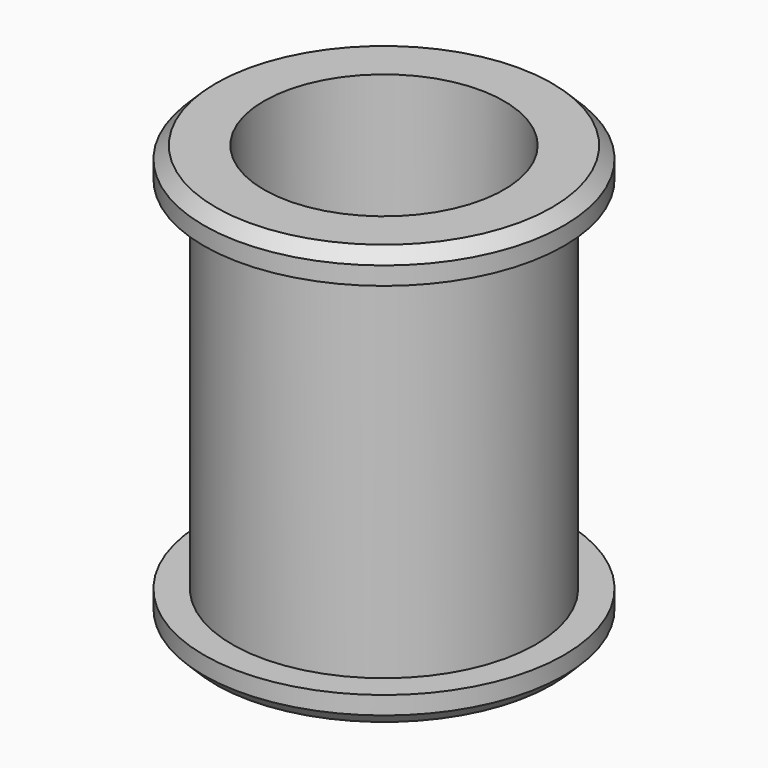
from build123d import *

# Parameters (mm, degrees)
F0_W    = 32.086309
F0_H    = 76.2
F3_D    = 50.8
F4_SIZE = 2.54


with BuildPart() as f1:
    # F0 (on Front) → F1 (revolve)
    with BuildSketch(Plane.XZ):
        Polygon((0, 44.45), (0, 38.1), (32.086309, 38.1), (38.1, 38.1), (38.1, 44.45), align=None)
        with Locations((16.043154, 0)):
            Rectangle(F0_W, F0_H)
        Polygon((32.086309, -38.1), (0, -38.1), (0, -44.45), (38.1, -44.45), (38.1, -38.1), align=None)
    revolve(axis=Axis((0, 0, 0), (0, 0, -1)))

    # F3 (through all)
    with Locations(Plane.XY.offset(44.45)):
        with Locations((0, 0)):
            Hole(F3_D / 2)

    # F4
    f4_edges = [f1.edges().sort_by_distance(p)[0] for p in [
        (-38.1, 0, 44.45),
        (-38.1, 0, -44.45),
    ]]
    chamfer(f4_edges, length=F4_SIZE)


solid = f1.part
